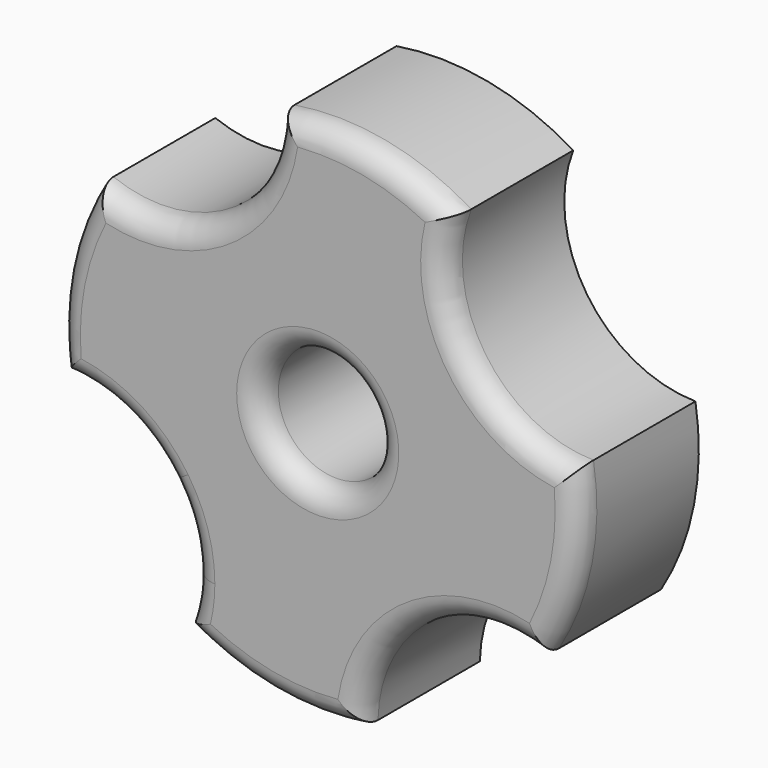
from build123d import *

# Parameters (mm, degrees)
F0_R     = 22.5
F1_DEPTH = 13
F3_D     = 10
F5_DEPTH = 25
F6_R     = 2


with BuildPart() as f1:
    # F0 (on Front) → F1 (new body)
    with BuildSketch(Plane.XZ):
        Circle(F0_R)
    extrude(amount=F1_DEPTH)

    # F3 (through all)
    with Locations(Plane.XZ.offset(13)):
        with Locations((0, 0)):
            Hole(F3_D / 2)

    # F4 (on face) → F5 (cut)
    with BuildSketch(Plane.XZ.offset(13)):
        with BuildLine():
            Line((-18.6533453825, -12.5818403281), (-12.8500823746, -8.6674900038))
            ThreePointArc((-12.8500823746, -8.6674900038), (-16.9085134828, -4.9854002249), (-22.2102103191, -3.5995218548))
            ThreePointArc((-22.2102103191, -3.5995218548), (-20.9195615975, -8.2838362229), (-18.6533453825, -12.5818403281))
        make_face()
        with BuildLine():
            ThreePointArc((-11.6575097746, -19.2445437944), (-11.0790420161, -17.2071413146), (-10.884014459, -15.0982083937))
            ThreePointArc((-10.884014459, -15.0982083937), (-11.3865097654, -11.7359337894), (-12.8500823746, -8.6674900038))
            Line((-12.8500823746, -8.6674900038), (-18.6533453825, -12.5818403281))
            ThreePointArc((-18.6533453825, -12.5818403281), (-15.5172449055, -16.29310009), (-11.6575097746, -19.2445437944))
        make_face()
        with BuildLine():
            ThreePointArc((19.2445437944, -11.6575097746), (8.6674900038, -12.8500823746), (3.5995218548, -22.2102103191))
            ThreePointArc((3.5995218548, -22.2102103191), (12.5818403281, -18.6533453825), (19.2445437944, -11.6575097746))
        make_face()
        with BuildLine():
            ThreePointArc((22.2102103191, 3.5995218548), (18.6533453825, 12.5818403281), (11.6575097746, 19.2445437944))
            ThreePointArc((11.6575097746, 19.2445437944), (12.8500823746, 8.6674900038), (22.2102103191, 3.5995218548))
        make_face()
        with BuildLine():
            ThreePointArc((-3.5995218548, 22.2102103191), (-12.5818403281, 18.6533453825), (-19.2445437944, 11.6575097746))
            ThreePointArc((-19.2445437944, 11.6575097746), (-8.6674900038, 12.8500823746), (-3.5995218548, 22.2102103191))
        make_face()
    extrude(amount=-F5_DEPTH, mode=Mode.SUBTRACT)

    # F6
    f6_edges = [f1.edges().sort_by_distance(p)[0] for p in [
        (8.66749, -13, -12.850082),
        (22.086612, -13, -4.293202),
        (12.850082, -13, 8.66749),
        (4.293202, -13, 22.086612),
        (-8.66749, -13, 12.850082),
        (-22.086612, -13, 4.293202),
        (-12.850082, -13, -8.66749),
        (-4.293202, -13, -22.086612),
        (-5, -13, 0),
    ]]
    fillet(f6_edges, radius=F6_R)


solid = f1.part
